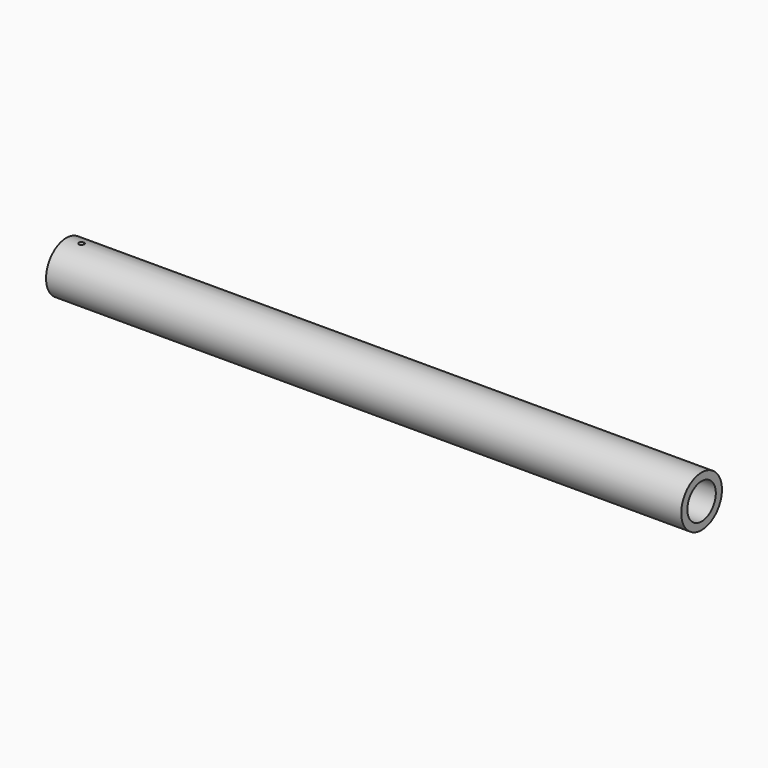
from build123d import *

# Parameters (mm, degrees)
F0_R     = 10
F0_R_2   = 7
F1_DEPTH = 250
F2_R     = 1
F3_DEPTH = 12.5


with BuildPart() as f1:
    # F0 (on Right) → F1 (new body)
    with BuildSketch(Plane.YZ):
        Circle(F0_R)
        Circle(F0_R_2, mode=Mode.SUBTRACT)
    extrude(amount=F1_DEPTH)

    # F2 (on Top) → F3 (cut, symmetric)
    with BuildSketch(Plane.XY):
        with Locations((6, 0)):
            Circle(F2_R)
    extrude(amount=F3_DEPTH, both=True, mode=Mode.SUBTRACT)


solid = f1.part
